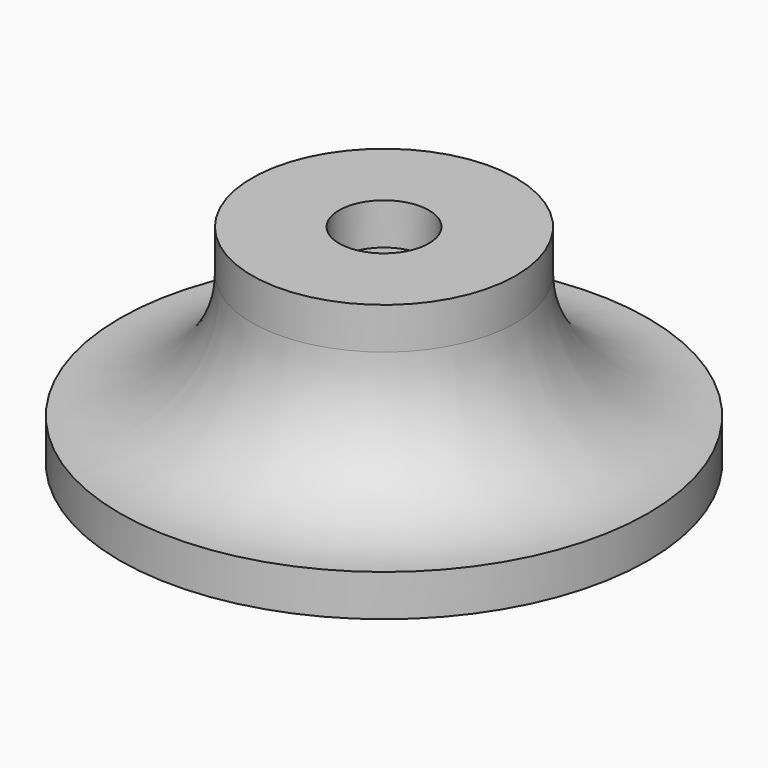
from build123d import *

# Parameters (mm, degrees)
F0_W = 2.159
F0_H = 0.2


with BuildPart() as f1:
    # F0 (on Front) → F1 (revolve)
    with BuildSketch(Plane.XZ):
        with BuildLine():
            Line((3.572, 7.8), (3.572, 0))
            Line((3.572, 0), (12.7, 0))
            Line((12.7, 0), (12.7, 2))
            ThreePointArc((12.7, 2), (8.232272, 3.631863), (6.35, 8))
            Line((6.35, 8), (6.35, 10))
            Line((6.35, 10), (2.159, 10))
            Line((2.159, 10), (2.159, 8))
            Line((2.159, 8), (2.159, 7.8))
            Line((2.159, 7.8), (3.572, 7.8))
        make_face()
        with Locations((1.0795, 7.9)):
            Rectangle(F0_W, F0_H)
    revolve(axis=Axis((0, 0, 5), (0, 0, 1)))


solid = f1.part
